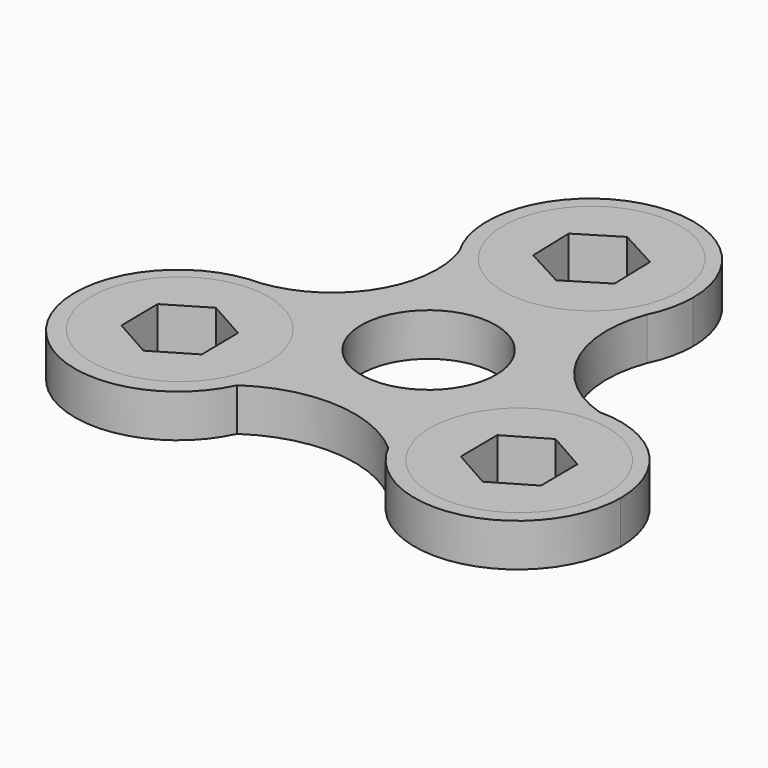
from build123d import *

# Parameters (mm, degrees)
F0_R     = 11
F0_R_2   = 14.458881358
F1_DEPTH = 7
F2_R     = 14.458881358
F2_R_2   = 8.039559278
F3_DEPTH = 7
F2_R_3   = 8.8370833189
F2_R_4   = 8.5599792308


with BuildPart() as f1:
    # F0 (on Top) → F1 (new body)
    with BuildSketch(Plane.XY):
        with BuildLine():
            ThreePointArc((-16.3887088912, -3.8809610224), (-14.4632008437, 8.6294529916), (-4.3682857315, 16.2655992004))
            ThreePointArc((-4.3682857315, 16.2655992004), (-9.8990523893, 19.1236949419), (-14.0136695292, 23.7957412689))
            ThreePointArc((-14.0136695292, 23.7957412689), (-15.6692579733, 8.9795011642), (-28.2909881408, 1.0451535845))
            ThreePointArc((-28.2909881408, 1.0451535845), (-21.8502805621, -0.2350293923), (-16.3887088912, -3.8809610224))
        make_face()
        with BuildLine():
            ThreePointArc((4.8333436091, 16.1335187463), (13.5102668426, 10.0560592392), (16.8419606216, 0))
            ThreePointArc((16.8419606216, 0), (16.6985007154, -2.1935613597), (16.2705649811, -4.3497531857))
            ThreePointArc((16.2705649811, -4.3497531857), (21.5437538805, -0.9758622574), (27.684896041, 0.2390591929))
            ThreePointArc((27.684896041, 0.2390591929), (16.3211772488, 10.0520702575), (15.6189773275, 25.0499436472))
            ThreePointArc((15.6189773275, 25.0499436472), (11.1960774955, 19.4184840816), (4.8333436091, 16.1335187463))
        make_face()
        with BuildLine():
            ThreePointArc((-4.3682857315, 16.2655992004), (0.2233327879, 15.5588921001), (4.8333436091, 16.1335187463))
            ThreePointArc((4.8333436091, 16.1335187463), (0.2417250897, 16.8402258465), (-4.3682857315, 16.2655992004))
        make_face()
        with BuildLine():
            ThreePointArc((16.2705649811, -4.3497531857), (16.6985007154, -2.1935613597), (16.8419606216, 0))
            ThreePointArc((16.8419606216, 0), (13.5102668426, 10.0560592392), (4.8333436091, 16.1335187463))
            ThreePointArc((4.8333436091, 16.1335187463), (0.2233327879, 15.5588921001), (-4.3682857315, 16.2655992004))
            ThreePointArc((-4.3682857315, 16.2655992004), (-14.4632008437, 8.6294529916), (-16.3887088912, -3.8809610224))
            ThreePointArc((-16.3887088912, -3.8809610224), (-13.5860622074, -7.5860341822), (-11.9022792495, -11.9158460147))
            ThreePointArc((-11.9022792495, -11.9158460147), (-0.2417250897, -16.8402258465), (11.5553652821, -12.2525577238))
            ThreePointArc((11.5553652821, -12.2525577238), (13.3627294195, -7.9728579179), (16.2705649811, -4.3497531857))
        make_face()
        Circle(F0_R, mode=Mode.SUBTRACT)
        with BuildLine():
            ThreePointArc((11.5553652821, -12.2525577238), (14.4632008437, -8.6294529916), (16.2705649811, -4.3497531857))
            ThreePointArc((16.2705649811, -4.3497531857), (13.3627294195, -7.9728579179), (11.5553652821, -12.2525577238))
        make_face()
        with BuildLine():
            ThreePointArc((27.684896041, 0.2390591929), (21.5437538805, -0.9758622574), (16.2705649811, -4.3497531857))
            ThreePointArc((16.2705649811, -4.3497531857), (14.4632008437, -8.6294529916), (11.5553652821, -12.2525577238))
            ThreePointArc((11.5553652821, -12.2525577238), (11.0782250409, -18.3816386942), (12.8325226015, -24.2736448398))
            ThreePointArc((12.8325226015, -24.2736448398), (31.7713869007, -32.9756126383), (44.6678908848, -16.6023109095))
            ThreePointArc((44.6678908848, -16.6023109095), (39.6850268722, -4.6434871715), (27.684896041, 0.2390591929))
        make_face()
        with Locations((28.0585624278, -16.587106511)):
            Circle(F0_R_2, mode=Mode.SUBTRACT)
        with BuildLine():
            ThreePointArc((-4.3682857315, 16.2655992004), (0.2417250897, 16.8402258465), (4.8333436091, 16.1335187463))
            ThreePointArc((4.8333436091, 16.1335187463), (11.1960774955, 19.4184840816), (15.6189773275, 25.0499436472))
            ThreePointArc((15.6189773275, 25.0499436472), (16.8795842524, 28.628844552), (17.3070184992, 32.3991179466))
            ThreePointArc((17.3070184992, 32.3991179466), (-3.99596671, 48.6395273383), (-14.0136695292, 23.7957412689))
            ThreePointArc((-14.0136695292, 23.7957412689), (-9.8990523893, 19.1236949419), (-4.3682857315, 16.2655992004))
        make_face()
        with Locations((0.4650578776, 32.7091552317)):
            Circle(F0_R_2, mode=Mode.SUBTRACT)
        with BuildLine():
            ThreePointArc((-11.9022792495, -11.9158460147), (-14.7049259333, -8.2107728549), (-16.3887088912, -3.8809610224))
            ThreePointArc((-16.3887088912, -3.8809610224), (-21.8502805621, -0.2350293923), (-28.2909881408, 1.0451535845))
            ThreePointArc((-28.2909881408, 1.0451535845), (-42.4807074983, -24.8689347994), (-13.0040569082, -22.8651428433))
            ThreePointArc((-13.0040569082, -22.8651428433), (-11.8423782995, -19.4154907574), (-11.4490275192, -15.7968070371))
            ThreePointArc((-11.4490275192, -15.7968070371), (-11.5627242236, -13.8431376953), (-11.9022792495, -11.9158460147))
        make_face()
        with Locations((-28.3686034381, -15.3469489887)):
            Circle(F0_R_2, mode=Mode.SUBTRACT)
        with BuildLine():
            ThreePointArc((-11.9022792495, -11.9158460147), (-13.5860622074, -7.5860341822), (-16.3887088912, -3.8809610224))
            ThreePointArc((-16.3887088912, -3.8809610224), (-14.7049259333, -8.2107728549), (-11.9022792495, -11.9158460147))
        make_face()
        with BuildLine():
            ThreePointArc((12.8325226015, -24.2736448398), (11.0782250409, -18.3816386942), (11.5553652821, -12.2525577238))
            ThreePointArc((11.5553652821, -12.2525577238), (-0.2417250897, -16.8402258465), (-11.9022792495, -11.9158460147))
            ThreePointArc((-11.9022792495, -11.9158460147), (-11.5627242236, -13.8431376953), (-11.4490275192, -15.7968070371))
            ThreePointArc((-11.4490275192, -15.7968070371), (-11.8423782995, -19.4154907574), (-13.0040569082, -22.8651428433))
            ThreePointArc((-13.0040569082, -22.8651428433), (0.1547742209, -19.1570704245), (12.8325226015, -24.2736448398))
        make_face()
    extrude(amount=F1_DEPTH)


with BuildPart() as f3:
    # F2 (on face) → F3 (new body)
    with BuildSketch(Plane.XY.offset(7)):
        with Locations((0.4650578776, 32.7091552317)):
            Circle(F2_R)
        with Locations((0.4650578776, 32.7091552317)):
            Circle(F2_R_2, mode=Mode.SUBTRACT)
        with Locations((0.4650578776, 32.7091552317)):
            Circle(F2_R_2)
        Polygon((6.8607923379, 36.6369935745), (7.0645328945, 29.1342058847), (0.6687984343, 25.2063675419), (-5.9306765827, 28.7813168889), (-6.1344171394, 36.2841045788), (0.2613173209, 40.2119429216), align=None, mode=Mode.SUBTRACT)
    extrude(amount=-F3_DEPTH)


with BuildPart() as f3b:
    # F2 (on face) → F3, piece 2 (new body)
    with BuildSketch(Plane.XY.offset(7)):
        with Locations((-28.3686034381, -15.3469489887)):
            Circle(F2_R)
        with Locations((-28.3686034381, -15.3469489887)):
            Circle(F2_R_3, mode=Mode.SUBTRACT)
        with Locations((-28.3686034381, -15.3469489887)):
            Circle(F2_R_3)
        Polygon((-34.9151834977, -11.6760331824), (-28.4627871244, -7.8419864461), (-21.9162070649, -11.5129022525), (-21.8220233786, -19.0178647951), (-28.2744197518, -22.8519115314), (-34.8209998114, -19.180995725), align=None, mode=Mode.SUBTRACT)
    extrude(amount=-F3_DEPTH)


with BuildPart() as f3c:
    # F2 (on face) → F3, piece 3 (new body)
    with BuildSketch(Plane.XY.offset(7)):
        with Locations((28.0585624278, -16.587106511)):
            Circle(F2_R)
        with Locations((28.0585624278, -16.587106511)):
            Circle(F2_R_4, mode=Mode.SUBTRACT)
        with Locations((28.0585624278, -16.587106511)):
            Circle(F2_R_4)
        Polygon((21.5279341864, -12.8878865789), (27.9968667425, -9.0818065852), (34.5274949839, -12.7810265173), (34.5891906691, -20.2863264431), (28.120258113, -24.0924064368), (21.5896298717, -20.3931865046), align=None, mode=Mode.SUBTRACT)
    extrude(amount=-F3_DEPTH)


solid = Compound([f1.part, f3.part, f3b.part, f3c.part])
